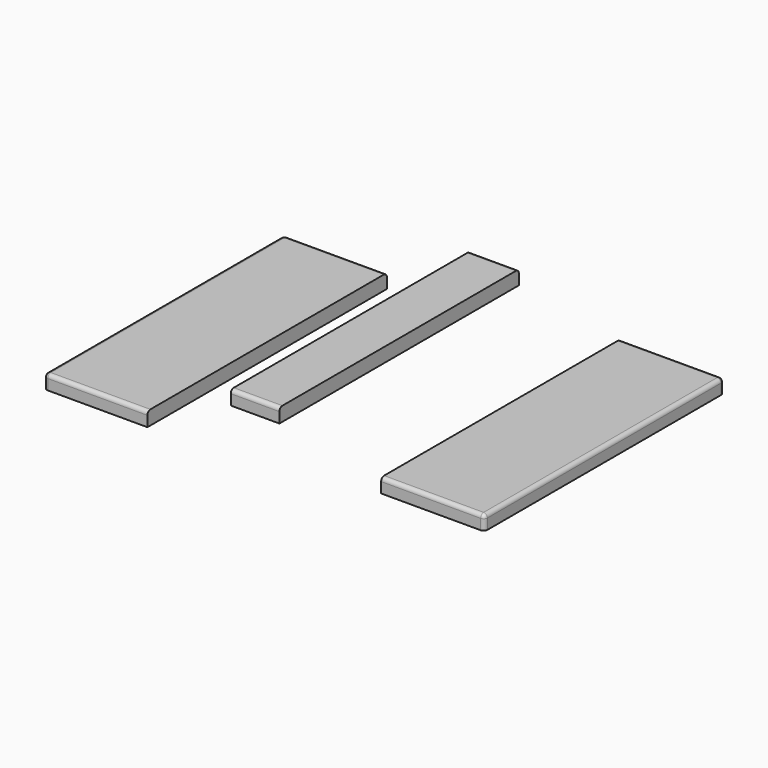
from build123d import *

# Parameters (mm, degrees)
F0_W     = 138
F0_H     = 400
F2_W     = 65
F2_H     = 400
F1_W     = 138
F1_H     = 400
F3_DEPTH = 19
F4_R     = 5
F5_R     = 5
F6_R     = 5
F7_R     = 5
F8_R     = 5
F9_R     = 5
F10_R    = 5


with BuildPart() as f3:
    # F0 (on Top) + F2 (on Top) + F1 (on Top) → F3 (new body)
    with BuildSketch(Plane.XY):
        with Locations((-106.374081, 79.398845)):
            Rectangle(F0_W, F0_H)
    with BuildSketch(Plane.XY):
        with Locations((32.5, 171.968711)):
            Rectangle(F2_W, F2_H)
    with BuildSketch(Plane.XY):
        with Locations((315.621719, 114.860857)):
            Rectangle(F1_W, F1_H)
    extrude(amount=F3_DEPTH)

    # F4
    f4_edges = [f3.edges().sort_by_distance(p)[0] for p in [
        (-175.374081, 79.398845, 19),
    ]]
    fillet(f4_edges, radius=F4_R)

    # F5
    f5_edges = [f3.edges().sort_by_distance(p)[0] for p in [
        (-103.874081, -120.601155, 19),
        (32.5, -28.031289, 19),
    ]]
    fillet(f5_edges, radius=F5_R)

    # F6
    f6_edges = [f3.edges().sort_by_distance(p)[0] for p in [
        (-103.874081, 279.398845, 19),
    ]]
    fillet(f6_edges, radius=F6_R)

    # F7
    f7_edges = [f3.edges().sort_by_distance(p)[0] for p in [
        (32.5, 371.968711, 19),
    ]]
    fillet(f7_edges, radius=F7_R)

    # F8
    f8_edges = [f3.edges().sort_by_distance(p)[0] for p in [
        (315.621719, 314.860857, 19),
    ]]
    fillet(f8_edges, radius=F8_R)

    # F9
    f9_edges = [f3.edges().sort_by_distance(p)[0] for p in [
        (315.621719, -85.139143, 19),
    ]]
    fillet(f9_edges, radius=F9_R)

    # F10
    f10_edges = [f3.edges().sort_by_distance(p)[0] for p in [
        (384.621719, 114.860857, 19),
    ]]
    fillet(f10_edges, radius=F10_R)


solid = f3.part
